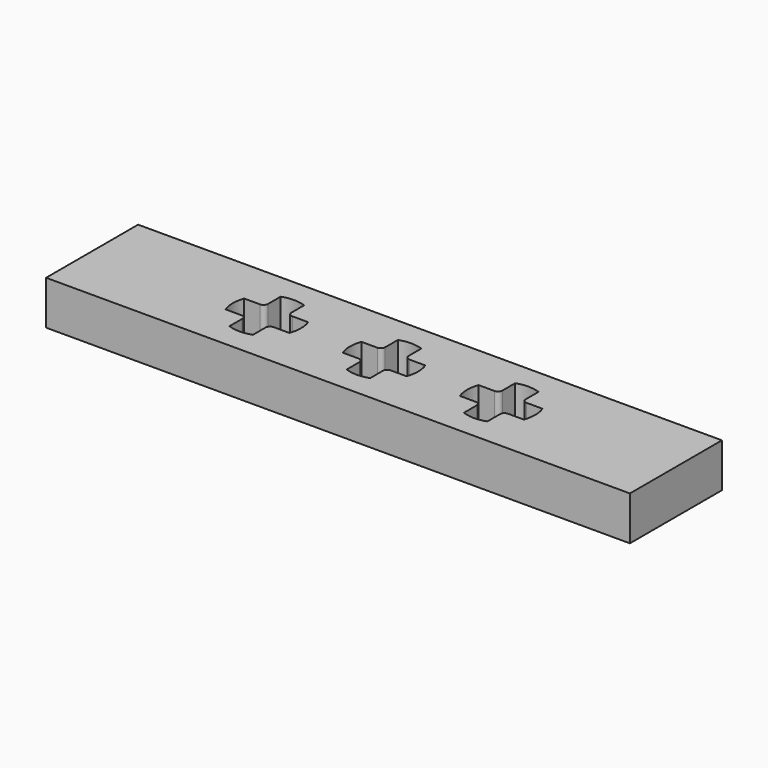
from build123d import *

# Parameters (mm, degrees)
F0_W     = 39.85
F0_H     = 7.85
F1_DEPTH = 3


with BuildPart() as f1:
    # F0 (on Top) → F1 (new body)
    with BuildSketch(Plane.XY):
        Rectangle(F0_W, F0_H)
        with BuildLine():
            ThreePointArc((-16.8, 2.1830311496), (-16, 2.325), (-15.2, 2.1830311496))
            Line((-15.2, 2.1830311496), (-15.2, 1.1))
            ThreePointArc((-15.2, 1.1), (-15.1121320344, 0.8878679656), (-14.9, 0.8))
            Line((-14.9, 0.8), (-13.8169688504, 0.8))
            ThreePointArc((-13.8169688504, 0.8), (-13.675, 0), (-13.8169688504, -0.8))
            Line((-13.8169688504, -0.8), (-14.9, -0.8))
            ThreePointArc((-14.9, -0.8), (-15.1121320344, -0.8878679656), (-15.2, -1.1))
            Line((-15.2, -1.1), (-15.2, -2.1830311496))
            ThreePointArc((-15.2, -2.1830311496), (-16, -2.325), (-16.8, -2.1830311496))
            Line((-16.8, -2.1830311496), (-16.8, -1.1))
            ThreePointArc((-16.8, -1.1), (-16.8878679656, -0.8878679656), (-17.1, -0.8))
            Line((-17.1, -0.8), (-18.1830311496, -0.8))
            ThreePointArc((-18.1830311496, -0.8), (-18.325, 0), (-18.1830311496, 0.8))
            Line((-18.1830311496, 0.8), (-17.1, 0.8))
            ThreePointArc((-17.1, 0.8), (-16.8878679656, 0.8878679656), (-16.8, 1.1))
            Line((-16.8, 1.1), (-16.8, 2.1830311496))
        make_face(mode=Mode.SUBTRACT)
        with BuildLine():
            ThreePointArc((-8.8, 2.1830311496), (-8, 2.325), (-7.2, 2.1830311496))
            Line((-7.2, 2.1830311496), (-7.2, 1.1))
            ThreePointArc((-7.2, 1.1), (-7.1121320344, 0.8878679656), (-6.9, 0.8))
            Line((-6.9, 0.8), (-5.8169688504, 0.8))
            ThreePointArc((-5.8169688504, 0.8), (-5.675, 0), (-5.8169688504, -0.8))
            Line((-5.8169688504, -0.8), (-6.9, -0.8))
            ThreePointArc((-6.9, -0.8), (-7.1121320344, -0.8878679656), (-7.2, -1.1))
            Line((-7.2, -1.1), (-7.2, -2.1830311496))
            ThreePointArc((-7.2, -2.1830311496), (-8, -2.325), (-8.8, -2.1830311496))
            Line((-8.8, -2.1830311496), (-8.8, -1.1))
            ThreePointArc((-8.8, -1.1), (-8.8878679656, -0.8878679656), (-9.1, -0.8))
            Line((-9.1, -0.8), (-10.1830311496, -0.8))
            ThreePointArc((-10.1830311496, -0.8), (-10.325, 0), (-10.1830311496, 0.8))
            Line((-10.1830311496, 0.8), (-9.1, 0.8))
            ThreePointArc((-9.1, 0.8), (-8.8878679656, 0.8878679656), (-8.8, 1.1))
            Line((-8.8, 1.1), (-8.8, 2.1830311496))
        make_face(mode=Mode.SUBTRACT)
        with BuildLine():
            ThreePointArc((-0.8, 2.1830311496), (0, 2.325), (0.8, 2.1830311496))
            Line((0.8, 2.1830311496), (0.8, 1.1))
            ThreePointArc((0.8, 1.1), (0.8878679656, 0.8878679656), (1.1, 0.8))
            Line((1.1, 0.8), (2.1830311496, 0.8))
            ThreePointArc((2.1830311496, 0.8), (2.325, 0), (2.1830311496, -0.8))
            Line((2.1830311496, -0.8), (1.1, -0.8))
            ThreePointArc((1.1, -0.8), (0.8878679656, -0.8878679656), (0.8, -1.1))
            Line((0.8, -1.1), (0.8, -2.1830311496))
            ThreePointArc((0.8, -2.1830311496), (0, -2.325), (-0.8, -2.1830311496))
            Line((-0.8, -2.1830311496), (-0.8, -1.1))
            ThreePointArc((-0.8, -1.1), (-0.8878679656, -0.8878679656), (-1.1, -0.8))
            Line((-1.1, -0.8), (-2.1830311496, -0.8))
            ThreePointArc((-2.1830311496, -0.8), (-2.325, 0), (-2.1830311496, 0.8))
            Line((-2.1830311496, 0.8), (-1.1, 0.8))
            ThreePointArc((-1.1, 0.8), (-0.8878679656, 0.8878679656), (-0.8, 1.1))
            Line((-0.8, 1.1), (-0.8, 2.1830311496))
        make_face(mode=Mode.SUBTRACT)
        with BuildLine():
            ThreePointArc((7.2, 2.1830311496), (8, 2.325), (8.8, 2.1830311496))
            Line((8.8, 2.1830311496), (8.8, 1.1))
            ThreePointArc((8.8, 1.1), (8.8878679656, 0.8878679656), (9.1, 0.8))
            Line((9.1, 0.8), (10.1830311496, 0.8))
            ThreePointArc((10.1830311496, 0.8), (10.325, 0), (10.1830311496, -0.8))
            Line((10.1830311496, -0.8), (9.1, -0.8))
            ThreePointArc((9.1, -0.8), (8.8878679656, -0.8878679656), (8.8, -1.1))
            Line((8.8, -1.1), (8.8, -2.1830311496))
            ThreePointArc((8.8, -2.1830311496), (8, -2.325), (7.2, -2.1830311496))
            Line((7.2, -2.1830311496), (7.2, -1.1))
            ThreePointArc((7.2, -1.1), (7.1121320344, -0.8878679656), (6.9, -0.8))
            Line((6.9, -0.8), (5.8169688504, -0.8))
            ThreePointArc((5.8169688504, -0.8), (5.675, 0), (5.8169688504, 0.8))
            Line((5.8169688504, 0.8), (6.9, 0.8))
            ThreePointArc((6.9, 0.8), (7.1121320344, 0.8878679656), (7.2, 1.1))
            Line((7.2, 1.1), (7.2, 2.1830311496))
        make_face(mode=Mode.SUBTRACT)
        with BuildLine():
            ThreePointArc((15.2, 2.1830311496), (16, 2.325), (16.8, 2.1830311496))
            Line((16.8, 2.1830311496), (16.8, 1.1))
            ThreePointArc((16.8, 1.1), (16.8878679656, 0.8878679656), (17.1, 0.8))
            Line((17.1, 0.8), (18.1830311496, 0.8))
            ThreePointArc((18.1830311496, 0.8), (18.325, 0), (18.1830311496, -0.8))
            Line((18.1830311496, -0.8), (17.1, -0.8))
            ThreePointArc((17.1, -0.8), (16.8878679656, -0.8878679656), (16.8, -1.1))
            Line((16.8, -1.1), (16.8, -2.1830311496))
            ThreePointArc((16.8, -2.1830311496), (16, -2.325), (15.2, -2.1830311496))
            Line((15.2, -2.1830311496), (15.2, -1.1))
            ThreePointArc((15.2, -1.1), (15.1121320344, -0.8878679656), (14.9, -0.8))
            Line((14.9, -0.8), (13.8169688504, -0.8))
            ThreePointArc((13.8169688504, -0.8), (13.675, 0), (13.8169688504, 0.8))
            Line((13.8169688504, 0.8), (14.9, 0.8))
            ThreePointArc((14.9, 0.8), (15.1121320344, 0.8878679656), (15.2, 1.1))
            Line((15.2, 1.1), (15.2, 2.1830311496))
        make_face(mode=Mode.SUBTRACT)
        with BuildLine():
            Line((-15.2, 1.1), (-15.2, 2.1830311496))
            ThreePointArc((-15.2, 2.1830311496), (-16, 2.325), (-16.8, 2.1830311496))
            Line((-16.8, 2.1830311496), (-16.8, 1.1))
            ThreePointArc((-16.8, 1.1), (-16.8878679656, 0.8878679656), (-17.1, 0.8))
            Line((-17.1, 0.8), (-18.1830311496, 0.8))
            ThreePointArc((-18.1830311496, 0.8), (-18.325, 0), (-18.1830311496, -0.8))
            Line((-18.1830311496, -0.8), (-17.1, -0.8))
            ThreePointArc((-17.1, -0.8), (-16.8878679656, -0.8878679656), (-16.8, -1.1))
            Line((-16.8, -1.1), (-16.8, -2.1830311496))
            ThreePointArc((-16.8, -2.1830311496), (-16, -2.325), (-15.2, -2.1830311496))
            Line((-15.2, -2.1830311496), (-15.2, -1.1))
            ThreePointArc((-15.2, -1.1), (-15.1121320344, -0.8878679656), (-14.9, -0.8))
            Line((-14.9, -0.8), (-13.8169688504, -0.8))
            ThreePointArc((-13.8169688504, -0.8), (-13.675, 0), (-13.8169688504, 0.8))
            Line((-13.8169688504, 0.8), (-14.9, 0.8))
            ThreePointArc((-14.9, 0.8), (-15.1121320344, 0.8878679656), (-15.2, 1.1))
        make_face()
        with BuildLine():
            Line((16.8, 1.1), (16.8, 2.1830311496))
            ThreePointArc((16.8, 2.1830311496), (16, 2.325), (15.2, 2.1830311496))
            Line((15.2, 2.1830311496), (15.2, 1.1))
            ThreePointArc((15.2, 1.1), (15.1121320344, 0.8878679656), (14.9, 0.8))
            Line((14.9, 0.8), (13.8169688504, 0.8))
            ThreePointArc((13.8169688504, 0.8), (13.675, 0), (13.8169688504, -0.8))
            Line((13.8169688504, -0.8), (14.9, -0.8))
            ThreePointArc((14.9, -0.8), (15.1121320344, -0.8878679656), (15.2, -1.1))
            Line((15.2, -1.1), (15.2, -2.1830311496))
            ThreePointArc((15.2, -2.1830311496), (16, -2.325), (16.8, -2.1830311496))
            Line((16.8, -2.1830311496), (16.8, -1.1))
            ThreePointArc((16.8, -1.1), (16.8878679656, -0.8878679656), (17.1, -0.8))
            Line((17.1, -0.8), (18.1830311496, -0.8))
            ThreePointArc((18.1830311496, -0.8), (18.325, 0), (18.1830311496, 0.8))
            Line((18.1830311496, 0.8), (17.1, 0.8))
            ThreePointArc((17.1, 0.8), (16.8878679656, 0.8878679656), (16.8, 1.1))
        make_face()
    extrude(amount=F1_DEPTH)


solid = f1.part
